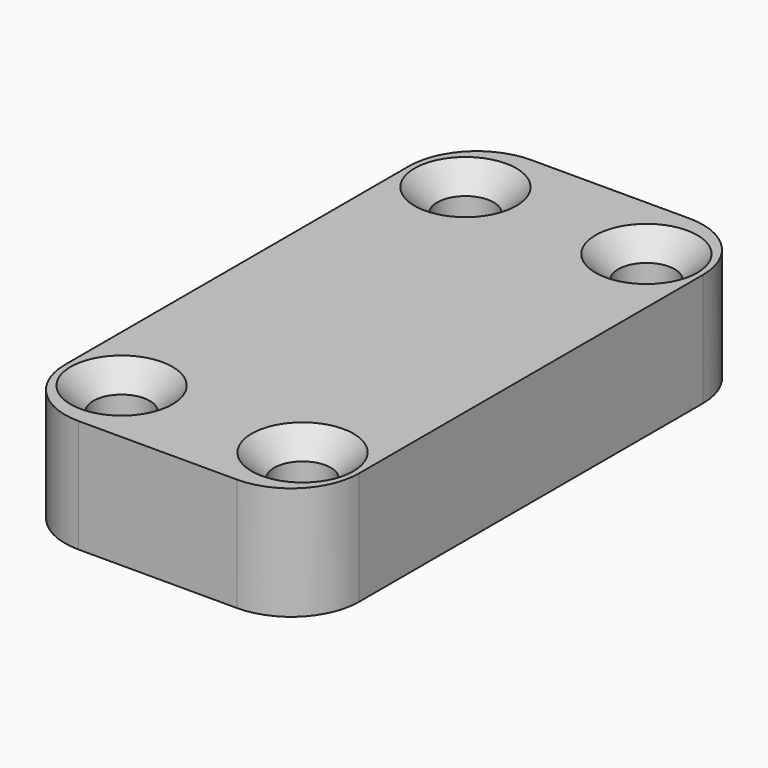
from build123d import *

# Parameters (mm, degrees)
F0_W     = 13
F0_H     = 25
F0_R     = 1.25
F1_DEPTH = 5
F2_R     = 3
F3_SIZE  = 1


with BuildPart() as f1:
    # F0 (on Top) → F1 (new body)
    with BuildSketch(Plane.XY):
        Rectangle(F0_W, F0_H)
        with Locations((-4, -9.5)):
            Circle(F0_R, mode=Mode.SUBTRACT)
        with Locations((4, -9.5)):
            Circle(F0_R, mode=Mode.SUBTRACT)
        with Locations((-4, 9.5)):
            Circle(F0_R, mode=Mode.SUBTRACT)
        with Locations((4, 9.5)):
            Circle(F0_R, mode=Mode.SUBTRACT)
    extrude(amount=F1_DEPTH)

    # F2
    f2_edges = [f1.edges().sort_by_distance(p)[0] for p in [
        (-6.5, -12.5, 2.5),
        (6.5, -12.5, 2.5),
        (6.5, 12.5, 2.5),
        (-6.5, 12.5, 2.5),
    ]]
    fillet(f2_edges, radius=F2_R)

    # F3
    f3_edges = [f1.edges().sort_by_distance(p)[0] for p in [
        (-5.25, 9.5, 5),
        (2.75, 9.5, 5),
        (2.75, -9.5, 5),
        (-5.25, -9.5, 5),
    ]]
    chamfer(f3_edges, length=F3_SIZE)


solid = f1.part
